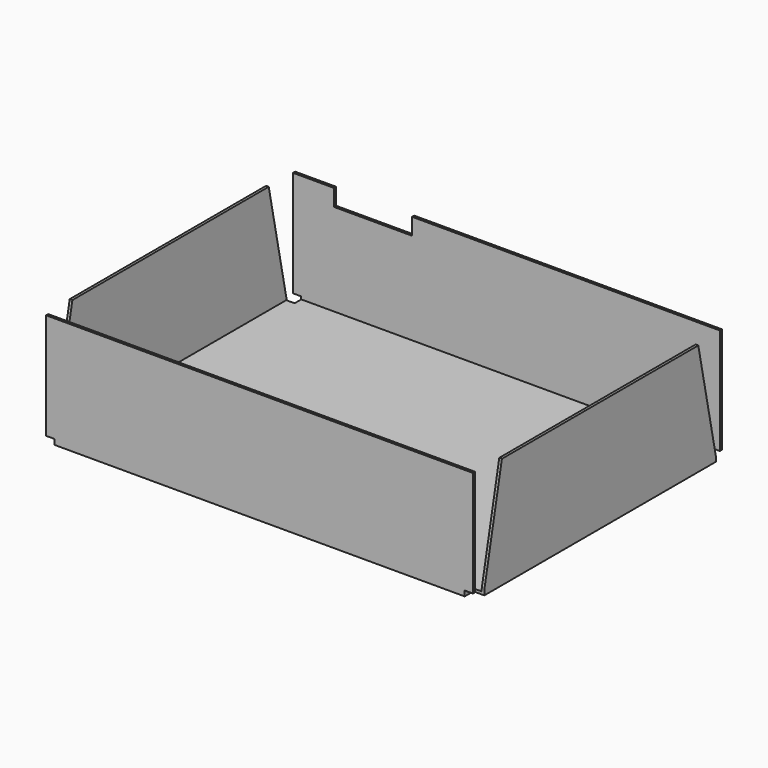
from build123d import *

# Parameters (mm, degrees)
F1_DEPTH      = 71
F1_DEPTH_BACK = 71
F2_W          = 194.8
F2_H          = 139.6
F3_DEPTH      = 49.62
F4_W          = 35.56
F4_H          = 7.62
F5_DEPTH      = 25
F6_W          = 5
F6_H          = 1.2
F7_DEPTH      = 5
F8_W          = 1.2
F8_H          = 48.42
F9_DEPTH      = 1.21
F10_W         = 5
F10_H         = 1.2
F11_DEPTH     = 5
F12_W         = 1.2
F12_H         = 48.42
F13_DEPTH     = 1.21
F15_DEPTH     = 1.2
F17_DEPTH     = 1.2
F18_W         = 5
F18_H         = 5
F19_DEPTH     = 1.2


with BuildPart() as f1:
    # F0 (on Front) → F1 (new body, two sides)
    with BuildSketch(Plane.XZ) as f1_sk:
        Polygon((98.6, 25.41), (0, 25.41), (-98.6, 25.41), (-98.6, -25.41), (0, -25.41), (98.6, -25.41), align=None)
    extrude(amount=F1_DEPTH)
    extrude(f1_sk.sketch, amount=-F1_DEPTH_BACK)

    # F2 (on face) → F3 (cut)
    with BuildSketch(Plane.XY.offset(25.41)):
        Rectangle(F2_W, F2_H)
    extrude(amount=-F3_DEPTH, mode=Mode.SUBTRACT)

    # F4 (on face) → F5 (cut)
    with BuildSketch(Plane(origin=(0, 71, 0), x_dir=(-1, 0, 0), z_dir=(0, 1, 0))):
        with Locations((60.82, 21.6)):
            Rectangle(F4_W, F4_H)
    extrude(amount=-F5_DEPTH, mode=Mode.SUBTRACT)

    # F6 (on face) → F7 (cut)
    with BuildSketch(Plane(origin=(-98.6, 0, 0), x_dir=(0, -1, 0), z_dir=(-1, 0, 0))):
        with Locations((-68.5, -23.61)):
            Rectangle(F6_W, F6_H)
        with Locations((68.5, -23.61)):
            Rectangle(F6_W, F6_H)
    extrude(amount=-F7_DEPTH, mode=Mode.SUBTRACT)

    # F8 (on face) → F9 (cut)
    with BuildSketch(Plane(origin=(-98.6, 0, 0), x_dir=(0, -1, 0), z_dir=(-1, 0, 0))):
        with Locations((-70.4, 1.2)):
            Rectangle(F8_W, F8_H)
        with Locations((70.4, 1.2)):
            Rectangle(F8_W, F8_H)
    extrude(amount=-F9_DEPTH, mode=Mode.SUBTRACT)

    # F10 (on face) → F11 (cut)
    with BuildSketch(Plane.YZ.offset(98.6)):
        with Locations((68.5, -23.61)):
            Rectangle(F10_W, F10_H)
        with Locations((-68.5, -23.61)):
            Rectangle(F10_W, F10_H)
    extrude(amount=-F11_DEPTH, mode=Mode.SUBTRACT)

    # F12 (on face) → F13 (cut)
    with BuildSketch(Plane.YZ.offset(98.6)):
        with Locations((-70.4, 1.2)):
            Rectangle(F12_W, F12_H)
        with Locations((70.4, 1.2)):
            Rectangle(F12_W, F12_H)
    extrude(amount=-F13_DEPTH, mode=Mode.SUBTRACT)

    # F14 (on face) → F15 (cut, through all)
    with BuildSketch(Plane(origin=(-98.6, 0, 0), x_dir=(0, -1, 0), z_dir=(-1, 0, 0))):
        Polygon((-56, 25.41), (-66, 25.41), (-69.8, 25.41), (-69.8, -23.01), (-66, -23.01), align=None)
        Polygon((69.8, 25.41), (66, 25.41), (56, 25.41), (66, -23.01), (69.8, -23.01), align=None)
    extrude(amount=-F15_DEPTH, mode=Mode.SUBTRACT)

    # F16 (on face) → F17 (cut, through all)
    with BuildSketch(Plane.YZ.offset(98.6)):
        Polygon((-56, 25.41), (-66, 25.41), (-69.8, 25.41), (-69.8, -23.01), (-66, -23.01), align=None)
        Polygon((66, -23.01), (69.8, -23.01), (69.8, 25.41), (56, 25.41), align=None)
    extrude(amount=-F17_DEPTH, mode=Mode.SUBTRACT)

    # F18 (on face) → F19 (cut, through all)
    with BuildSketch(Plane(origin=(0, 0, -25.41), x_dir=(1, 0, 0), z_dir=(0, 0, -1))):
        with Locations((-96.1, -68.5)):
            Rectangle(F18_W, F18_H)
        with Locations((96.1, -68.5)):
            Rectangle(F18_W, F18_H)
        with Locations((96.1, 68.5)):
            Rectangle(F18_W, F18_H)
        with Locations((-96.1, 68.5)):
            Rectangle(F18_W, F18_H)
    extrude(amount=-F19_DEPTH, mode=Mode.SUBTRACT)


solid = f1.part
